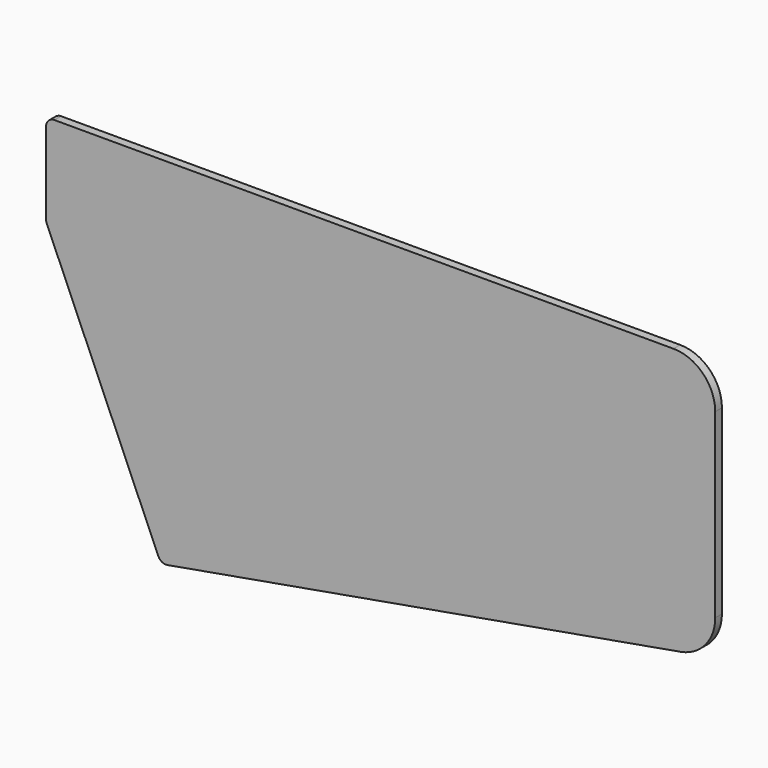
from build123d import *

# Parameters (mm, degrees)
F1_DEPTH = 0.5


with BuildPart() as f1:
    # F0 (on Front) → F1 (new body, symmetric)
    with BuildSketch(Plane.XZ):
        with BuildLine():
            ThreePointArc((13.393817, -36.799209), (13.833509, -37.323214), (14.507158, -37.441997))
            Line((14.507158, -37.441997), (75.868241, -26.622382))
            ThreePointArc((75.868241, -26.622382), (78.830222, -24.912281), (80, -21.698343))
            Line((80, -21.698343), (80, 0))
            ThreePointArc((80, 0), (78.535534, 3.535534), (75, 5))
            Line((75, 5), (1, 5))
            ThreePointArc((1, 5), (0.292893, 4.707107), (0, 4))
            Line((0, 4), (0, -5.791972))
            ThreePointArc((0, -5.791972), (0.02096, -5.99564), (0.082961, -6.19077))
            Line((0.082961, -6.19077), (13.393817, -36.799209))
        make_face()
    extrude(amount=F1_DEPTH, both=True)


solid = f1.part
